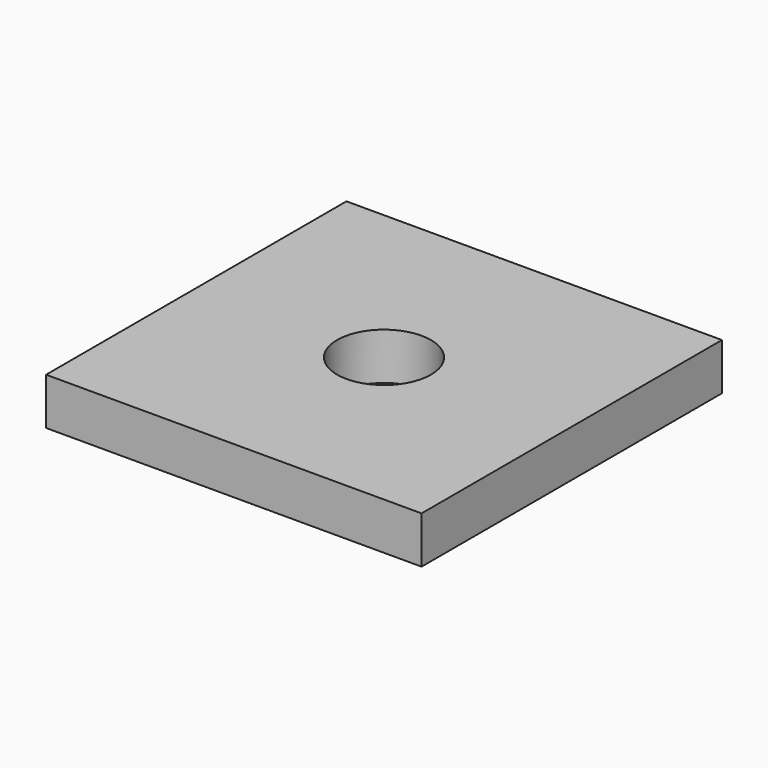
from build123d import *

# Parameters (mm, degrees)
SKETCH_W      = 40
SKETCH_H      = 40
SKETCH_R      = 5
EXTRUDE_DEPTH = 5


with BuildPart() as part:
    # Sketch → Extrude (new body)
    with BuildSketch(Plane.XY):
        Rectangle(SKETCH_W, SKETCH_H)
        Circle(SKETCH_R, mode=Mode.SUBTRACT)
    extrude(amount=EXTRUDE_DEPTH)


solid = part.part
